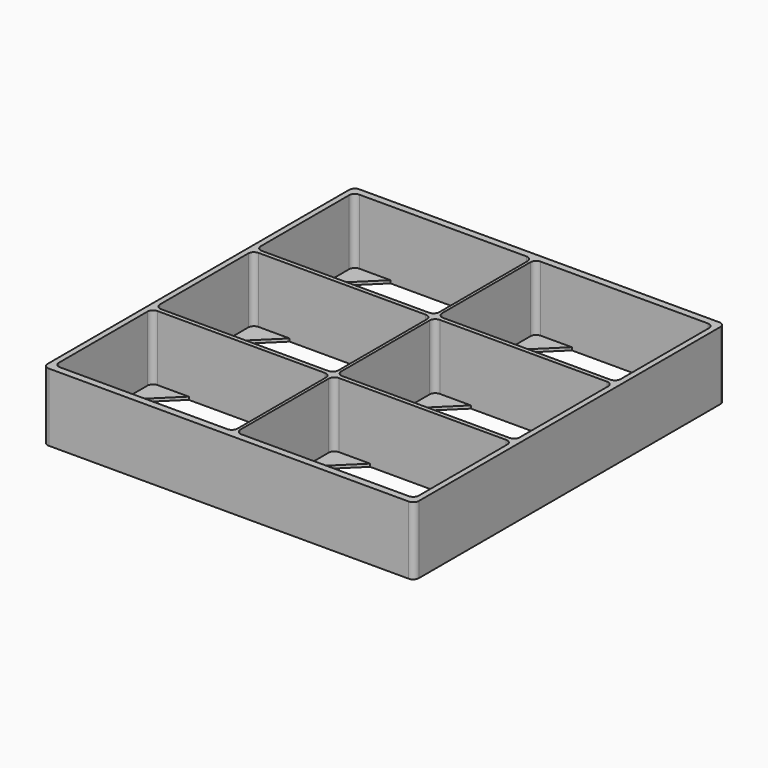
from build123d import *

# Parameters (mm, degrees)
F0_W     = 131
F0_H     = 137
F1_DEPTH = 24
F2_DEPTH = 1
F3_R     = 2


with BuildPart() as f1:
    # F0 (on Top) → F1 (new body)
    with BuildSketch(Plane.XY):
        Rectangle(F0_W, F0_H)
        Polygon((63.5, -53.262113756), (63.5, -66), (50.5, -66), (13.5, -66), (0.5, -66), (-0.5, -66), (-13.5, -66), (-50.5, -66), (-63.5, -66), (-63.5, -53.262113756), (-63.5, -35.737886244), (-63.5, -23), (-63.5, -21.5), (-63.5, -8.762113756), (-63.5, 8.762113756), (-63.5, 21.5), (-63.5, 23), (-63.5, 35.737886244), (-63.5, 53.262113756), (-63.5, 66), (-50.5, 66), (-13.5, 66), (-0.5, 66), (0.5, 66), (13.5, 66), (50.5, 66), (63.5, 66), (63.5, 53.262113756), (63.5, 35.737886244), (63.5, 23), (63.5, 21.5), (63.5, 8.762113756), (63.5, -8.762113756), (63.5, -21.5), (63.5, -23), (63.5, -35.737886244), align=None, mode=Mode.SUBTRACT)
        Polygon((-0.5, -66), (0.5, -66), (0.5, -53.262113756), (0.5, -35.737886244), (0.5, -23), (0.5, -21.5), (0.5, -8.762113756), (0.5, 8.762113756), (0.5, 21.5), (0.5, 23), (0.5, 35.737886244), (0.5, 53.262113756), (0.5, 66), (-0.5, 66), (-0.5, 53.262113756), (-0.5, 35.737886244), (-0.5, 23), (-0.5, 21.5), (-0.5, 8.762113756), (-0.5, -8.762113756), (-0.5, -21.5), (-0.5, -23), (-0.5, -35.737886244), (-0.5, -53.262113756), align=None)
        Polygon((50.5, 21.5), (63.5, 21.5), (63.5, 23), (50.5, 23), (13.5, 23), (0.5, 23), (0.5, 21.5), (13.5, 21.5), align=None)
        Polygon((-13.5, 21.5), (-0.5, 21.5), (-0.5, 23), (-13.5, 23), (-50.5, 23), (-63.5, 23), (-63.5, 21.5), (-50.5, 21.5), align=None)
        Polygon((-13.5, -23), (-0.5, -23), (-0.5, -21.5), (-13.5, -21.5), (-50.5, -21.5), (-63.5, -21.5), (-63.5, -23), (-50.5, -23), align=None)
        Polygon((50.5, -23), (63.5, -23), (63.5, -21.5), (50.5, -21.5), (13.5, -21.5), (0.5, -21.5), (0.5, -23), (13.5, -23), align=None)
    extrude(amount=F1_DEPTH)

    # F0 (on Top) → F2 (join)
    with BuildSketch(Plane.XY):
        Polygon((-63.5, 66), (-63.5, 53.262113756), (-50.5, 66), align=None)
        Polygon((-63.5, 35.737886244), (-63.5, 23), (-50.5, 23), align=None)
        Polygon((-13.5, 66), (-0.5, 53.262113756), (-0.5, 66), align=None)
        Polygon((-13.5, 23), (-0.5, 23), (-0.5, 35.737886244), align=None)
        Polygon((0.5, 66), (0.5, 53.262113756), (13.5, 66), align=None)
        Polygon((50.5, 66), (63.5, 53.262113756), (63.5, 66), align=None)
        Polygon((50.5, 23), (63.5, 23), (63.5, 35.737886244), align=None)
        Polygon((0.5, 35.737886244), (0.5, 23), (13.5, 23), align=None)
        Polygon((0.5, 21.5), (0.5, 8.762113756), (13.5, 21.5), align=None)
        Polygon((-13.5, 21.5), (-0.5, 8.762113756), (-0.5, 21.5), align=None)
        Polygon((-63.5, 21.5), (-63.5, 8.762113756), (-50.5, 21.5), align=None)
        Polygon((-63.5, -8.762113756), (-63.5, -21.5), (-50.5, -21.5), align=None)
        Polygon((-13.5, -21.5), (-0.5, -21.5), (-0.5, -8.762113756), align=None)
        Polygon((50.5, -21.5), (63.5, -21.5), (63.5, -8.762113756), align=None)
        Polygon((50.5, 21.5), (63.5, 8.762113756), (63.5, 21.5), align=None)
        Polygon((0.5, -8.762113756), (0.5, -21.5), (13.5, -21.5), align=None)
        Polygon((0.5, -23), (0.5, -35.737886244), (13.5, -23), align=None)
        Polygon((-13.5, -23), (-0.5, -35.737886244), (-0.5, -23), align=None)
        Polygon((-63.5, -23), (-63.5, -35.737886244), (-50.5, -23), align=None)
        Polygon((-63.5, -66), (-50.5, -66), (-63.5, -53.262113756), align=None)
        Polygon((-13.5, -66), (-0.5, -66), (-0.5, -53.262113756), align=None)
        Polygon((0.5, -66), (13.5, -66), (0.5, -53.262113756), align=None)
        Polygon((50.5, -23), (63.5, -35.737886244), (63.5, -23), align=None)
        Polygon((50.5, -66), (63.5, -66), (63.5, -53.262113756), align=None)
    extrude(amount=F2_DEPTH)

    # F3
    f3_edges = [f1.edges().sort_by_distance(p)[0] for p in [
        (-65.5, 68.5, 12),
        (65.5, 68.5, 12),
        (-65.5, -68.5, 12),
        (65.5, -68.5, 12),
        (63.5, -23, 12.5),
        (63.5, 66, 12.5),
        (-0.5, 66, 12.5),
        (-0.5, 21.5, 12.5),
        (-0.5, -23, 12.5),
        (63.5, 21.5, 12.5),
        (-63.5, 21.5, 12.5),
        (-63.5, 66, 12.5),
        (-63.5, -23, 12.5),
        (0.5, 66, 12.5),
        (0.5, 21.5, 12.5),
        (0.5, -23, 12.5),
        (-63.5, -66, 12.5),
        (-63.5, -21.5, 12.5),
        (-63.5, 23, 12.5),
        (0.5, 23, 12.5),
        (0.5, -21.5, 12.5),
        (0.5, -66, 12.5),
        (-0.5, -66, 12.5),
        (-0.5, -21.5, 12.5),
        (-0.5, 23, 12.5),
        (63.5, 23, 12.5),
        (63.5, -21.5, 12.5),
        (63.5, -66, 12.5),
    ]]
    fillet(f3_edges, radius=F3_R)


solid = f1.part
